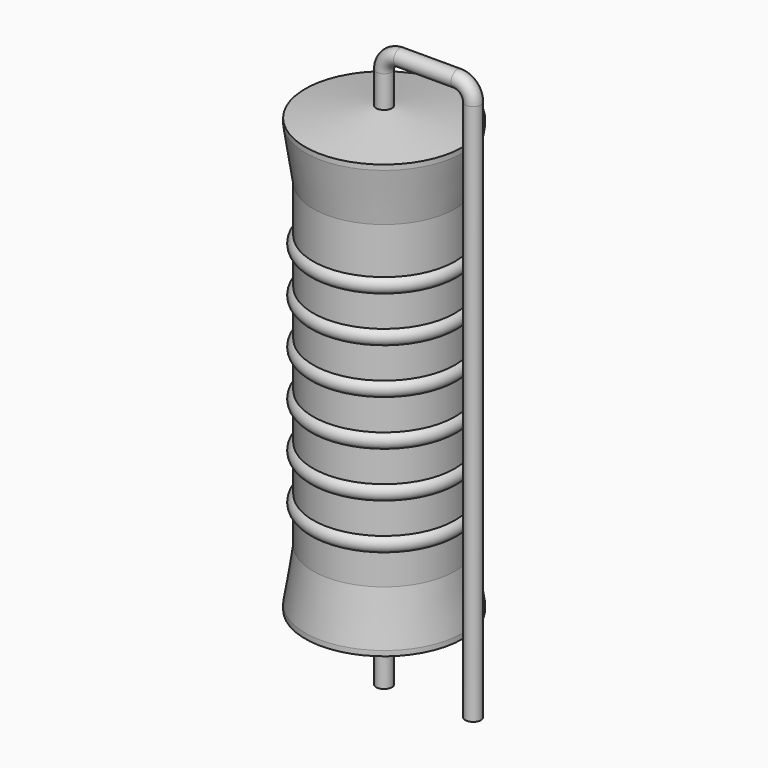
from build123d import *

# Parameters (mm, degrees)
SKETCH_R = 0.45


with BuildPart() as sweep_body:
    # Sweep: sweep along a path in Sketch001
    with BuildLine(Plane.XZ) as sweep_path:
        Line((0, -3), (0, 27.9))
        ThreePointArc((0, 27.9), (0.2636, 28.536392), (0.89999, 28.8))
        Line((0.89999, 28.8), (4.18, 28.8))
        ThreePointArc((4.18, 28.8), (4.816396, 28.536396), (5.08, 27.9))
        Line((5.08, 27.9), (5.08, -3))
    # Sketch → Sweep (sweep)
    with BuildSketch(Plane.XY.offset(-2)):
        Circle(SKETCH_R)
    sweep(path=sweep_path.line)


with BuildPart() as revolution:
    # Sketch002 → Revolution (revolve)
    with BuildSketch(Plane.XZ):
        Polygon((0, 0.1), (0, 26.1), (0.3375, 26.1), (4.5, 25.45), (4.5, 25.1575), (4.05, 22.2), (4.05, 4), (4.5, 1.0425), (4.5, 0.75), (0.3375, 0.1), align=None)
    revolve(axis=Axis((0, 0, 0), (0, 0, 1)))


with BuildPart() as revolution001:
    # Sketch003 → Revolution001 (revolve)
    with BuildSketch(Plane.XZ):
        with BuildLine():
            Line((3.6, 21.3), (3.6, 4))
            Line((3.6, 4), (3.87, 4))
            Line((3.87, 4), (3.87, 5.7))
            ThreePointArc((3.87, 5.7), (4.32, 6.15), (3.87, 6.6))
            Line((3.87, 6.6), (3.87, 8.3))
            ThreePointArc((3.87, 8.3), (4.32, 8.75), (3.87, 9.2))
            Line((3.87, 9.2), (3.87, 10.9))
            ThreePointArc((3.87, 10.9), (4.32, 11.35), (3.87, 11.8))
            Line((3.87, 11.8), (3.87, 13.5))
            ThreePointArc((3.87, 13.5), (4.32, 13.95), (3.87, 14.4))
            Line((3.87, 14.4), (3.87, 16.1))
            ThreePointArc((3.87, 16.1), (4.32, 16.55), (3.87, 17))
            Line((3.87, 17), (3.87, 18.7))
            ThreePointArc((3.87, 18.7), (4.32, 19.15), (3.87, 19.6))
            Line((3.87, 21.3), (3.87, 19.6))
            Line((3.6, 21.3), (3.87, 21.3))
        make_face()
    revolve(axis=Axis((0, 0, 0), (0, 0, 1)))


solid = Compound([sweep_body.part, revolution.part, revolution001.part])
